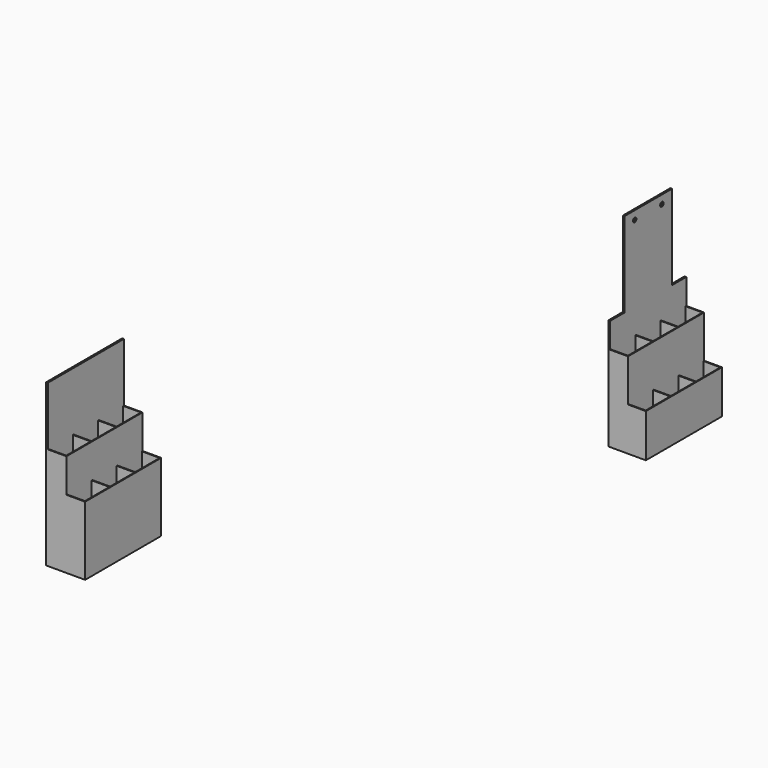
from build123d import *

# Parameters (mm, degrees)
F1_DEPTH  = 112
F2_W      = 21
F2_H      = 36
F3_DEPTH  = 80
F4_W      = 21
F4_H      = 36
F5_DEPTH  = 80
F6_W      = 110
F6_H      = 40
F7_DEPTH  = 23
F11_DEPTH = 112
F12_W     = 20
F12_H     = 36
F13_DEPTH = 50
F14_W     = 20
F14_H     = 36
F15_DEPTH = 50
F16_W     = 110
F16_H     = 50
F17_DEPTH = 22
F18_W     = 21
F18_H     = 100
F19_DEPTH = 2
F18_R     = 2.5
F20_DEPTH = 2


with BuildPart() as f1:
    # F0 (on Front) → F1 (new body)
    with BuildSketch(Plane.XZ):
        Polygon((-56.566088, 112.663095), (-58.566088, 112.663095), (-58.566088, -77.336905), (-12.566088, -77.336905), (-12.566088, 3.663095), (-34.566088, 3.663095), (-34.566088, 43.663095), (-56.566088, 43.663095), align=None)
    extrude(amount=F1_DEPTH)

    # F2 (on face) → F3 (cut)
    with BuildSketch(Plane.XY.offset(43.663095)):
        with Locations((-46.066088, -93)):
            Rectangle(F2_W, F2_H)
        with Locations((-46.066088, -56)):
            Rectangle(F2_W, F2_H)
        with Locations((-46.066088, -19)):
            Rectangle(F2_W, F2_H)
    extrude(amount=-F3_DEPTH, mode=Mode.SUBTRACT)

    # F4 (on face) → F5 (cut)
    with BuildSketch(Plane.XY.offset(3.663095)):
        with Locations((-24.066088, -19)):
            Rectangle(F4_W, F4_H)
        with Locations((-24.066088, -56)):
            Rectangle(F4_W, F4_H)
        with Locations((-24.066088, -93)):
            Rectangle(F4_W, F4_H)
    extrude(amount=-F5_DEPTH, mode=Mode.SUBTRACT)

    # F6 (on face) → F7 (cut)
    with BuildSketch(Plane(origin=(-58.566088, 0, 0), x_dir=(0, -1, 0), z_dir=(-1, 0, 0))):
        with Locations((56, -57.336905)):
            Rectangle(F6_W, F6_H)
    extrude(amount=-F7_DEPTH, mode=Mode.SUBTRACT)


with BuildPart() as f8_1:
    # F8: copy of F1
    add(f1.part.moved(Location((0, 1000, 0))))


with BuildPart() as f11:
    # F10 (on Front) → F11 (new body)
    with BuildSketch(Plane.XZ):
        Polygon((204.025656, 159.117968), (204.025656, -71.882032), (248.025656, -71.882032), (248.025656, -20.882032), (227.025656, -20.882032), (227.025656, 29.117968), (206.025656, 29.117968), (206.025656, 159.117968), align=None)
    extrude(amount=F11_DEPTH)

    # F12 (on face) → F13 (cut)
    with BuildSketch(Plane.XY.offset(-20.882032)):
        with Locations((237.025656, -56)):
            Rectangle(F12_W, F12_H)
        with Locations((237.025656, -93)):
            Rectangle(F12_W, F12_H)
        with Locations((237.025656, -19)):
            Rectangle(F12_W, F12_H)
    extrude(amount=-F13_DEPTH, mode=Mode.SUBTRACT)

    # F14 (on face) → F15 (cut)
    with BuildSketch(Plane.XY.offset(29.117968)):
        with Locations((216.025656, -93)):
            Rectangle(F14_W, F14_H)
        with Locations((216.025656, -56)):
            Rectangle(F14_W, F14_H)
        with Locations((216.025656, -19)):
            Rectangle(F14_W, F14_H)
    extrude(amount=-F15_DEPTH, mode=Mode.SUBTRACT)

    # F16 (on face) → F17 (cut)
    with BuildSketch(Plane(origin=(204.025656, 0, 0), x_dir=(0, -1, 0), z_dir=(-1, 0, 0))):
        with Locations((56, -46.882032)):
            Rectangle(F16_W, F16_H)
    extrude(amount=-F17_DEPTH, mode=Mode.SUBTRACT)

    # F18 (on face) → F19 (cut, through all)
    with BuildSketch(Plane.YZ.offset(206.025656)):
        with Locations((-101.5, 109.117968)):
            Rectangle(F18_W, F18_H)
        with Locations((-10.5, 109.117968)):
            Rectangle(F18_W, F18_H)
    extrude(amount=-F19_DEPTH, mode=Mode.SUBTRACT)

    # F18 (on face) → F20 (cut, through all)
    with BuildSketch(Plane.YZ.offset(206.025656)):
        with Locations((-76, 149.117968)):
            Circle(F18_R)
        with Locations((-36, 149.117968)):
            Circle(F18_R)
    extrude(amount=-F20_DEPTH, mode=Mode.SUBTRACT)


with BuildPart() as f11_1:
    # F21: moved
    add(f11.part.moved(Location((0, 500, 0))))


solid = Compound([f1.part, f11_1.part])
